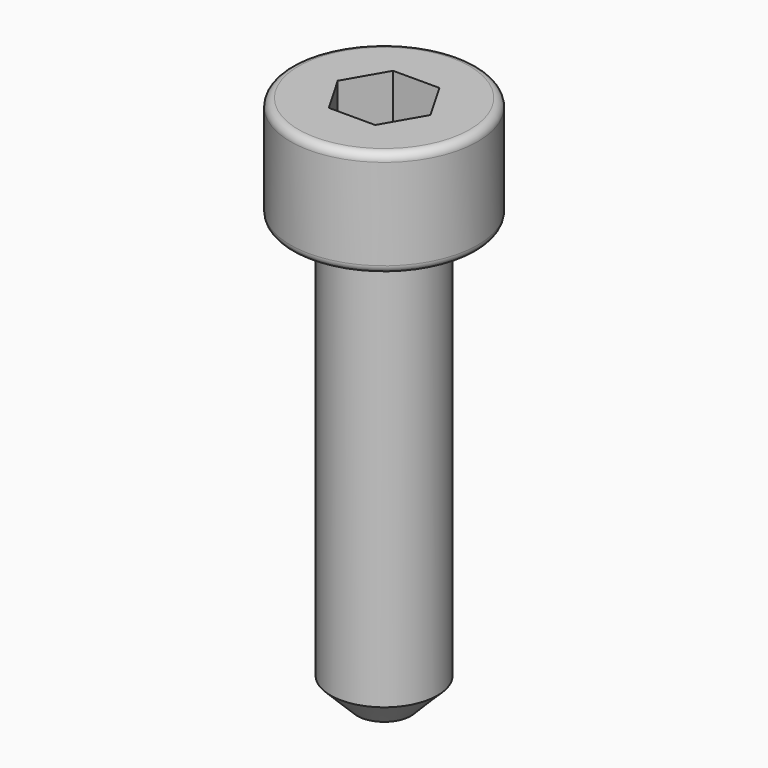
from build123d import *

# Parameters (mm, degrees)
F3_DEPTH = 4
F4_SIZE  = 1
F5_R     = 0.3


with BuildPart() as f1:
    # F0 (on Front) → F1 (revolve)
    with BuildSketch(Plane.XZ):
        Polygon((3.5, 4), (0, 4), (0, -16), (2, -16), (2, 0), (3.5, 0), align=None)
    revolve(axis=Axis((0, 0, -50.553678), (0, 0, -1)))

    # F2 (on face) → F3 (cut)
    with BuildSketch(Plane.XY.offset(4)):
        Polygon((0.866025, 1.5), (-0.866025, 1.5), (-1.732051, 0), (-0.866025, -1.5), (0.866025, -1.5), (1.732051, 0), align=None)
    extrude(amount=-F3_DEPTH, mode=Mode.SUBTRACT)

    # F4
    f4_edges = [f1.edges().sort_by_distance(p)[0] for p in [
        (-2, 0, -16),
    ]]
    chamfer(f4_edges, length=F4_SIZE)

    # F5
    f5_edges = [f1.edges().sort_by_distance(p)[0] for p in [
        (-3.5, 0, 0),
        (-3.5, 0, 4),
    ]]
    fillet(f5_edges, radius=F5_R)


solid = f1.part
